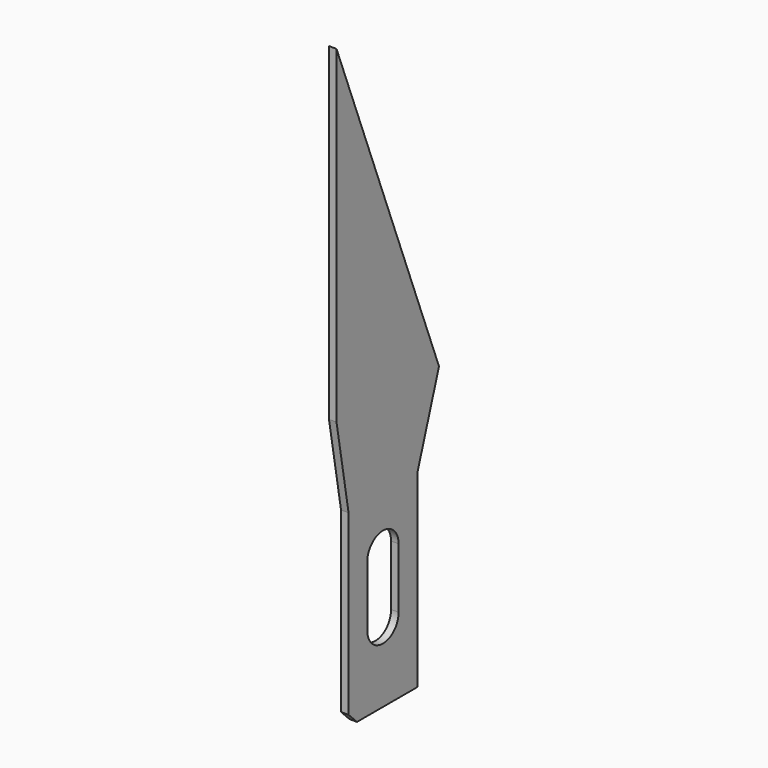
from build123d import *

# Parameters (mm, degrees)
F1_DEPTH = 0.25


with BuildPart() as f1:
    # F0 (on Right) → F1 (new body, symmetric)
    with BuildSketch(Plane.YZ):
        Polygon((1, -39.3), (1.7, -40), (6.7, -40), (6.7, -27.5), (8.5, -22), (0, 0), (0, -21.8), (1, -27.5), align=None)
        with BuildLine():
            ThreePointArc((5.15, -35), (3.85, -36.3), (2.55, -35))
            Line((2.55, -35), (2.55, -31))
            ThreePointArc((2.55, -31), (3.85, -29.7), (5.15, -31))
            Line((5.15, -31), (5.15, -35))
        make_face(mode=Mode.SUBTRACT)
    extrude(amount=F1_DEPTH, both=True)


solid = f1.part
